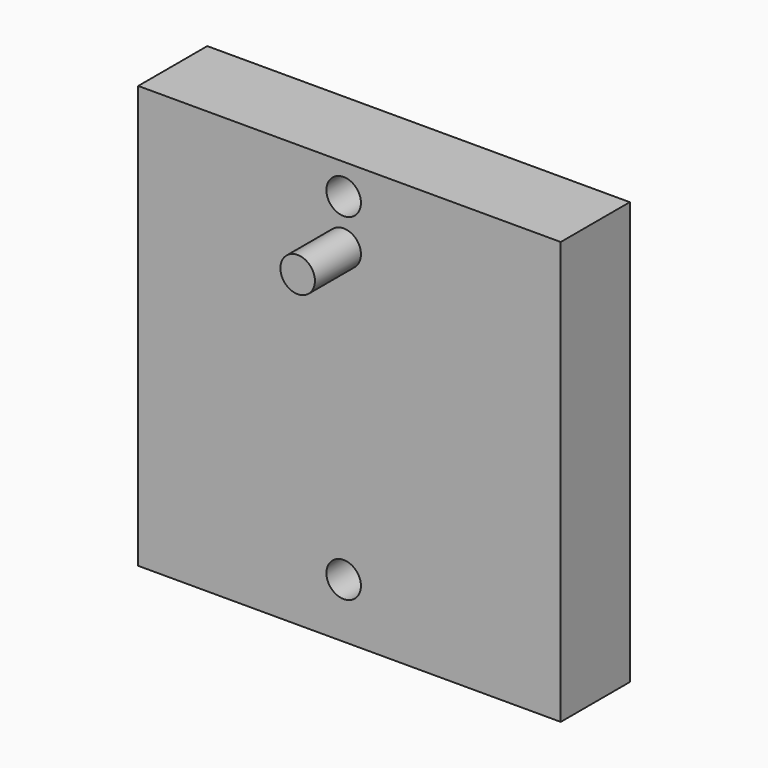
from build123d import *

# Parameters (mm, degrees)
F0_W     = 93.267471
F0_H     = 93.26747
F1_DEPTH = 19.05
F2_R     = 3.814712
F3_DEPTH = 12.7
F5_D     = 7.62


with BuildPart() as f1:
    # F0 (on Front) → F1 (new body)
    with BuildSketch(Plane.XZ):
        with Locations((1.279228, 8.954607)):
            Rectangle(F0_W, F0_H)
    extrude(amount=F1_DEPTH)

    # F2 (on face) → F3 (join)
    with BuildSketch(Plane.XZ.offset(19.05)):
        with Locations((0, 38.842063)):
            Circle(F2_R)
    extrude(amount=F3_DEPTH)

    # F5 (through all)
    with Locations(Plane.XZ.offset(19.05)):
        with Locations((0, 48.843313), (0, -25.584593)):
            Hole(F5_D / 2)


solid = f1.part
